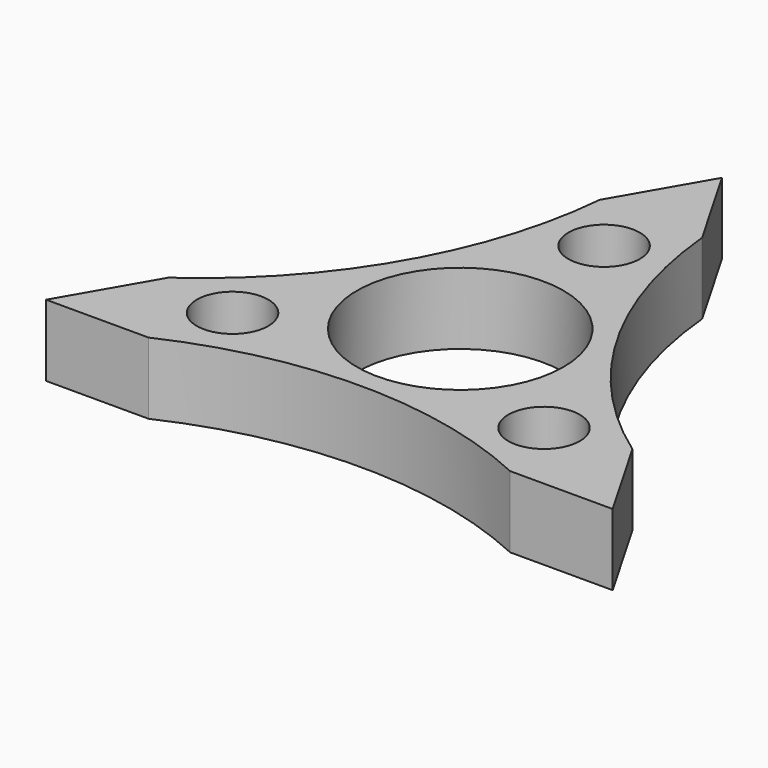
from build123d import *

# Parameters (mm, degrees)
F0_R     = 3.81
F0_R_2   = 11.0109
F1_DEPTH = 7.62


with BuildPart() as f1:
    # F0 (on Top) → F1 (new body)
    with BuildSketch(Plane.XY):
        with BuildLine():
            Line((5.459511, 25.4), (0, 34.85615))
            Line((0, 34.85615), (-5.459511, 25.4))
            ThreePointArc((-5.459511, 25.4), (-11.421828, 6.594396), (-24.726801, -7.971925))
            Line((-24.726801, -7.971925), (-30.186311, -17.428075))
            Line((-30.186311, -17.428075), (-19.26729, -17.428075))
            ThreePointArc((-19.26729, -17.428075), (0, -13.188791), (19.26729, -17.428075))
            Line((19.26729, -17.428075), (30.186311, -17.428075))
            Line((30.186311, -17.428075), (24.726801, -7.971925))
            ThreePointArc((24.726801, -7.971925), (11.421828, 6.594396), (5.459511, 25.4))
        make_face()
        with Locations((-16.59471, -9.58096)):
            Circle(F0_R, mode=Mode.SUBTRACT)
        with Locations((16.59471, -9.58096)):
            Circle(F0_R, mode=Mode.SUBTRACT)
        Circle(F0_R_2, mode=Mode.SUBTRACT)
        with Locations((0, 19.161921)):
            Circle(F0_R, mode=Mode.SUBTRACT)
    extrude(amount=F1_DEPTH)


solid = f1.part
